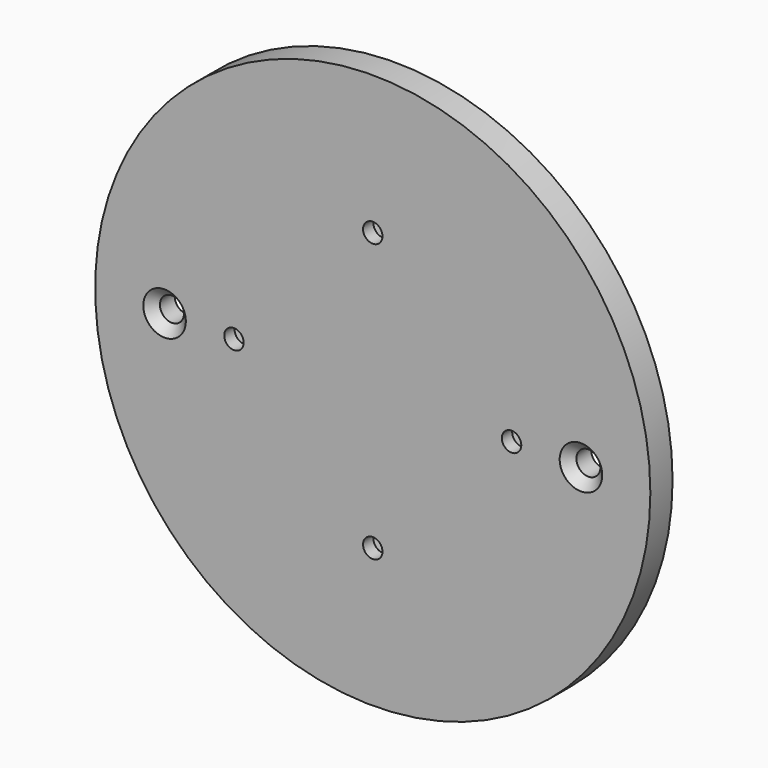
from build123d import *

# Parameters (mm, degrees)
SKETCH_R     = 60
SKETCH_R_2   = 2.6
SKETCH_R_3   = 2.1
PAD_DEPTH    = 6
CHAMFER_SIZE = 2
POCKET_DEPTH = 3.2


with BuildPart() as part:
    # Sketch → Pad (new body)
    with BuildSketch(Plane.XZ):
        Circle(SKETCH_R)
        with Locations((-45, 0)):
            Circle(SKETCH_R_2, mode=Mode.SUBTRACT)
        with Locations((45, 0)):
            Circle(SKETCH_R_2, mode=Mode.SUBTRACT)
        with Locations((-30, 0)):
            Circle(SKETCH_R_3, mode=Mode.SUBTRACT)
        with Locations((30, 0)):
            Circle(SKETCH_R_3, mode=Mode.SUBTRACT)
        with Locations((0, 30)):
            Circle(SKETCH_R_3, mode=Mode.SUBTRACT)
        with Locations((0, -30)):
            Circle(SKETCH_R_3, mode=Mode.SUBTRACT)
    extrude(amount=PAD_DEPTH)

    # Chamfer
    chamfer_edges = [part.edges().sort_by_distance(p)[0] for p in [
        (-47.6, -6, 0),
        (42.4, -6, 0),
    ]]
    chamfer(chamfer_edges, length=CHAMFER_SIZE)

    # Sketch001 → Pocket (cut)
    with BuildSketch(Plane.XZ):
        Polygon((2, 33.464102), (-2, 33.464102), (-4, 30), (-2, 26.535898), (2, 26.535898), (4, 30), align=None)
        Polygon((32, 3.464102), (28, 3.464102), (26, 0), (28, -3.464102), (32, -3.464102), (34, 0), align=None)
        Polygon((2, -26.535898), (-2, -26.535898), (-4, -30), (-2, -33.464102), (2, -33.464102), (4, -30), align=None)
        Polygon((-32, 3.464102), (-34, 0), (-32, -3.464102), (-28, -3.464102), (-26, 0), (-28, 3.464102), align=None)
    extrude(amount=POCKET_DEPTH, mode=Mode.SUBTRACT)


solid = part.part
